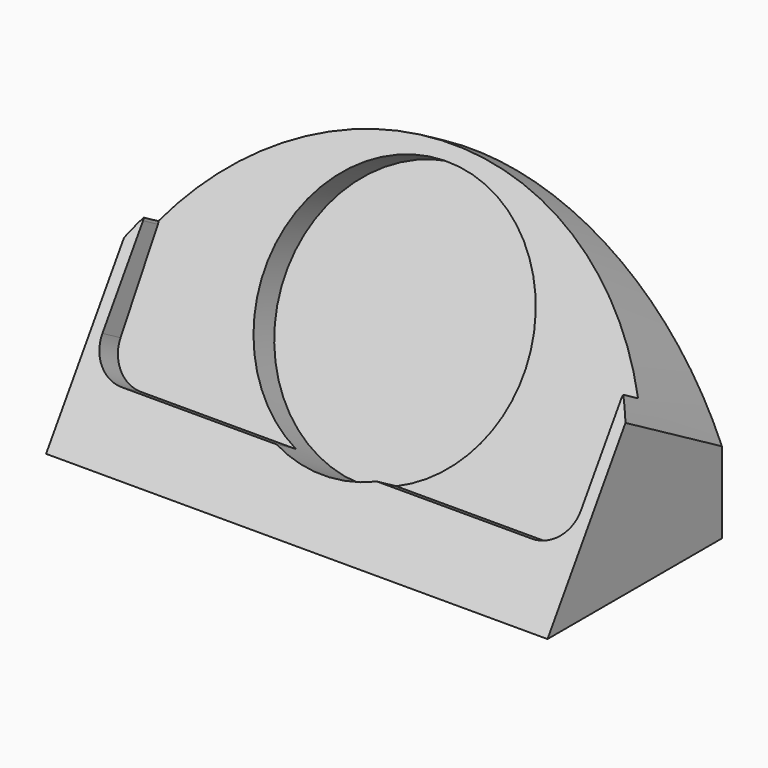
from build123d import *

# Parameters (mm, degrees)
PAD_DEPTH       = 88
POCKET_DEPTH    = 11
SKETCH011_R     = 46
POCKET001_DEPTH = 10.5
POCKET002_DEPTH = 66.2698164218
POCKET003_DEPTH = 10


with BuildPart() as part:
    # Sketch → Pad (new body, symmetric)
    with BuildSketch(Plane.YZ):
        Polygon((0, 0), (65.2925492254, 100.9999079658), (76.520638, 100.9999079658), (76.520638, 0), align=None)
    extrude(amount=PAD_DEPTH, both=True)

    # Sketch010 (on DatumPlane) → Pocket (cut)
    with BuildSketch(Plane(origin=(0, 54.6423048454, 94.6432482349), x_dir=(1, 0, 0), z_dir=(0, -0.8660254038, 0.5))):
        with BuildLine():
            Line((-84, 85), (-84, -73))
            ThreePointArc((-84, -73), (-80.4852813742, -81.4852813742), (-72, -85))
            Line((-72, -85), (72, -85))
            ThreePointArc((72, -85), (80.4852813742, -81.4852813742), (84, -73))
            Line((84, -73), (84, 85))
            Line((84, 85), (-84, 85))
        make_face()
    extrude(amount=-POCKET_DEPTH, mode=Mode.SUBTRACT)

    # Sketch011 (on Face12 of Pocket) → Pocket001 (cut, symmetric)
    with BuildSketch(Plane(origin=(0, 9.5262794416, -5.5), x_dir=(1, 0, 0), z_dir=(0, -0.8660254038, 0.5))):
        with Locations((0, 66.7846096908)):
            Circle(SKETCH011_R)
    extrude(amount=POCKET001_DEPTH, both=True, mode=Mode.SUBTRACT)

    # Sketch012 (on Face14 of Pocket001) → Pocket002 (cut, through all)
    with BuildSketch(Plane(origin=(0, 0, 0), x_dir=(1, 0, 0), z_dir=(0, -0.8660254038, 0.5))):
        with BuildLine():
            ThreePointArc((97.8966291555, 24.2846096908), (0, 117.7846096908), (-97.8966291555, 24.2846096908))
            Line((-97.8966291555, 154.2846096908), (-97.8966291555, 24.2846096908))
            Line((97.8966291555, 154.2846096908), (-97.8966291555, 154.2846096908))
            Line((97.8966291555, 24.2846096908), (97.8966291555, 154.2846096908))
        make_face()
    extrude(amount=-POCKET002_DEPTH, mode=Mode.SUBTRACT)

    # Sketch016 (on Face14 of Pocket002) → Pocket003 (cut)
    with BuildSketch(Plane(origin=(0, 9.5262794416, -5.5), x_dir=(1, 0, 0), z_dir=(0, -0.8660254038, 0.5))):
        with BuildLine():
            ThreePointArc((88, 69.0708248262), (86, 71.0708248262), (84, 69.0708248262))
            Line((84, 84.0708248262), (84, 69.0708248262))
            Line((88, 84.0708248262), (84, 84.0708248262))
            Line((88, 69.0708248262), (88, 84.0708248262))
        make_face()
        with BuildLine():
            ThreePointArc((-84, 69.0708248262), (-86, 71.0708248262), (-88, 69.0708248262))
            Line((-88, 85.0708248262), (-88, 69.0708248262))
            Line((-84, 85.0708248262), (-88, 85.0708248262))
            Line((-84, 69.0708248262), (-84, 85.0708248262))
        make_face()
    extrude(amount=POCKET003_DEPTH, mode=Mode.SUBTRACT)


solid = part.part
